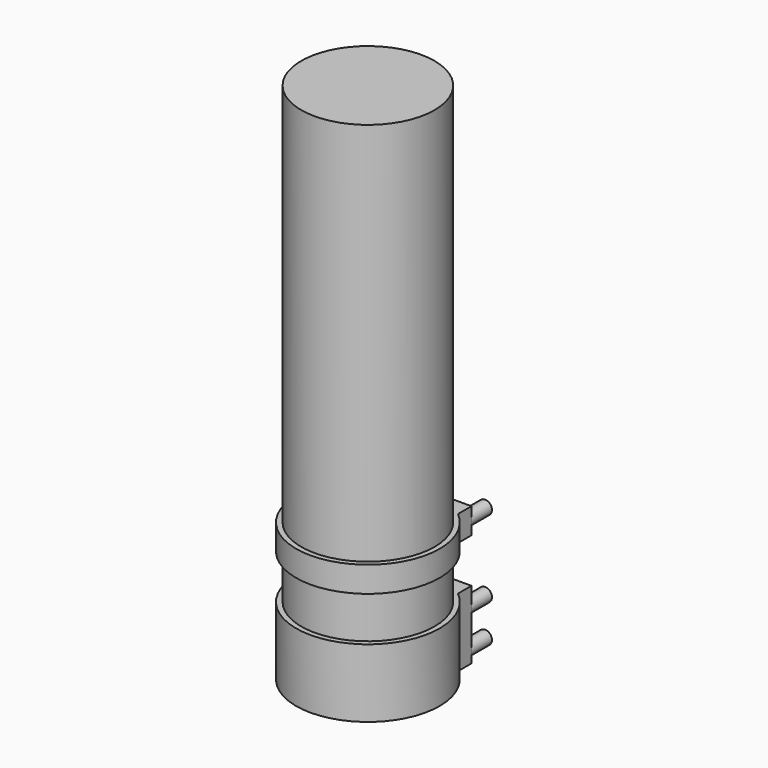
from build123d import *

# Parameters (mm, degrees)
CYLINDER_R             = 4
CYLINDER_DEPTH         = 15
CYLINDER_ROLL_ANGLE    = 90
CYLINDER001_R          = 4
CYLINDER001_DEPTH      = 15
CYLINDER001_ROLL_ANGLE = 90
CYLINDER002_R          = 4
CYLINDER002_DEPTH      = 15
CYLINDER002_ROLL_ANGLE = 90
CYLINDER003_R          = 4
CYLINDER003_DEPTH      = 15
CYLINDER003_ROLL_ANGLE = 90
CYLINDER007_R          = 4
CYLINDER007_DEPTH      = 15
CYLINDER007_ROLL_ANGLE = 90
CYLINDER008_R          = 4
CYLINDER008_DEPTH      = 15
CYLINDER008_ROLL_ANGLE = 90
CYLINDER010_R          = 39
CYLINDER010_DEPTH      = 300
CYLINDER011_R          = 39
CYLINDER011_DEPTH      = 15
CYLINDER006_R          = 42
CYLINDER006_DEPTH      = 15
BOX001_W               = 54
BOX001_H               = 10
BOX001_DEPTH           = 15
CYLINDER005_R          = 39
CYLINDER005_DEPTH      = 36
BOX_W                  = 54
BOX_H                  = 10
BOX_DEPTH              = 40
CYLINDER004_R          = 42
CYLINDER004_DEPTH      = 40


with BuildPart() as pin1:
    # Cylinder → Cylinder (new body)
    with BuildSketch(Plane.XY):
        Circle(CYLINDER_R)
    extrude(amount=CYLINDER_DEPTH)


with BuildPart() as pin1_1:
    # Cylinder roll: moved
    add(pin1.part.rotate(Axis((0, 0, 0), (1, 0, 0)), CYLINDER_ROLL_ANGLE))


with BuildPart() as pin1_2:
    # Cylinder placement: moved
    add(pin1_1.part.moved(Location((0, 5, 0))))


with BuildPart() as pin2:
    # Cylinder001 → Cylinder001 (new body)
    with BuildSketch(Plane.XY):
        Circle(CYLINDER001_R)
    extrude(amount=CYLINDER001_DEPTH)


with BuildPart() as pin2_1:
    # Cylinder001 roll: moved
    add(pin2.part.rotate(Axis((0, 0, 0), (1, 0, 0)), CYLINDER001_ROLL_ANGLE))


with BuildPart() as pin2_2:
    # Cylinder001 placement: moved
    add(pin2_1.part.moved(Location((46, 5, 0))))


with BuildPart() as pin3:
    # Cylinder002 → Cylinder002 (new body)
    with BuildSketch(Plane.XY):
        Circle(CYLINDER002_R)
    extrude(amount=CYLINDER002_DEPTH)


with BuildPart() as pin3_1:
    # Cylinder002 roll: moved
    add(pin3.part.rotate(Axis((0, 0, 0), (1, 0, 0)), CYLINDER002_ROLL_ANGLE))


with BuildPart() as pin3_2:
    # Cylinder002 placement: moved
    add(pin3_1.part.moved(Location((0, 5, 22))))


with BuildPart() as pin4:
    # Cylinder003 → Cylinder003 (new body)
    with BuildSketch(Plane.XY):
        Circle(CYLINDER003_R)
    extrude(amount=CYLINDER003_DEPTH)


with BuildPart() as pin4_1:
    # Cylinder003 roll: moved
    add(pin4.part.rotate(Axis((0, 0, 0), (1, 0, 0)), CYLINDER003_ROLL_ANGLE))


with BuildPart() as pin4_2:
    # Cylinder003 placement: moved
    add(pin4_1.part.moved(Location((46, 5, 22))))


with BuildPart() as pin5:
    # Cylinder007 → Cylinder007 (new body)
    with BuildSketch(Plane.XY):
        Circle(CYLINDER007_R)
    extrude(amount=CYLINDER007_DEPTH)


with BuildPart() as pin5_1:
    # Cylinder007 roll: moved
    add(pin5.part.rotate(Axis((0, 0, 0), (1, 0, 0)), CYLINDER007_ROLL_ANGLE))


with BuildPart() as pin5_2:
    # Cylinder007 placement: moved
    add(pin5_1.part.moved(Location((0, 5, 67))))


with BuildPart() as pin6:
    # Cylinder008 → Cylinder008 (new body)
    with BuildSketch(Plane.XY):
        Circle(CYLINDER008_R)
    extrude(amount=CYLINDER008_DEPTH)


with BuildPart() as pin6_1:
    # Cylinder008 roll: moved
    add(pin6.part.rotate(Axis((0, 0, 0), (1, 0, 0)), CYLINDER008_ROLL_ANGLE))


with BuildPart() as pin6_2:
    # Cylinder008 placement: moved
    add(pin6_1.part.moved(Location((46, 5, 67))))


with BuildPart() as bottle:
    # Cylinder010 → Cylinder010 (new body)
    with BuildSketch(Plane(origin=(23, -52, 0), x_dir=(1, 0, 0), z_dir=(0, 0, 1))):
        Circle(CYLINDER010_R)
    extrude(amount=CYLINDER010_DEPTH)


with BuildPart() as bottle_belly_cut:
    # Cylinder011 → Cylinder011 (new body)
    with BuildSketch(Plane(origin=(23, -52, 60), x_dir=(1, 0, 0), z_dir=(0, 0, 1))):
        Circle(CYLINDER011_R)
    extrude(amount=CYLINDER011_DEPTH)


with BuildPart() as bottle_belly:
    # Cylinder006 → Cylinder006 (new body)
    with BuildSketch(Plane(origin=(23, -52, 60), x_dir=(1, 0, 0), z_dir=(0, 0, 1))):
        Circle(CYLINDER006_R)
    extrude(amount=CYLINDER006_DEPTH)


with BuildPart() as upper_part:
    # Box001 → Box001 (new body)
    with BuildSketch(Plane(origin=(-4, -20, 60), x_dir=(1, 0, 0), z_dir=(0, 0, 1))):
        with Locations((27, 5)):
            Rectangle(BOX001_W, BOX001_H)
    extrude(amount=BOX001_DEPTH)

    # Fusion: union Bottle_Belly
    add(bottle_belly.part)

    # Cut: cut Bottle_Belly_cut
    add(bottle_belly_cut.part, mode=Mode.SUBTRACT)


with BuildPart() as bottle_cut:
    # Cylinder005 → Cylinder005 (new body)
    with BuildSketch(Plane(origin=(23, -52, -2), x_dir=(1, 0, 0), z_dir=(0, 0, 1))):
        Circle(CYLINDER005_R)
    extrude(amount=CYLINDER005_DEPTH)


with BuildPart() as peg_support:
    # Box → Box (new body)
    with BuildSketch(Plane(origin=(-4, -20, -6), x_dir=(1, 0, 0), z_dir=(0, 0, 1))):
        with Locations((27, 5)):
            Rectangle(BOX_W, BOX_H)
    extrude(amount=BOX_DEPTH)


with BuildPart() as lower_part:
    # Cylinder004 → Cylinder004 (new body)
    with BuildSketch(Plane(origin=(23, -52, -6), x_dir=(1, 0, 0), z_dir=(0, 0, 1))):
        Circle(CYLINDER004_R)
    extrude(amount=CYLINDER004_DEPTH)

    # Fusion001: union Peg support
    add(peg_support.part)

    # Cut001: cut Bottle_cut
    add(bottle_cut.part, mode=Mode.SUBTRACT)


solid = Compound([pin1_2.part, pin2_2.part, pin3_2.part, pin4_2.part, pin5_2.part, pin6_2.part, bottle.part, upper_part.part, lower_part.part])
